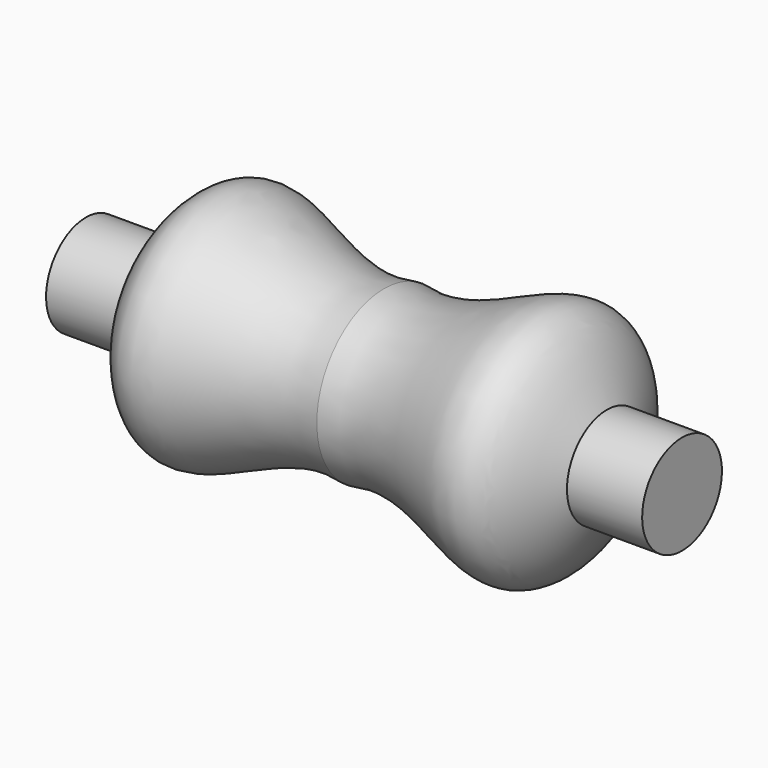
from build123d import *


with BuildPart() as f2:
    # F0 (on Front) → F2 (revolve)
    with BuildSketch(Plane.XZ):
        with BuildLine():
            Line((-12.7, 0), (0, 0))
            Line((0, 0), (12.7, 0))
            Line((12.7, 0), (12.7, 2.1246635822))
            Line((12.7, 2.1246635822), (9.4962037243, 2.1246635822))
            add(Edge.make_bspline(
                [(9.4962037243, 2.1246635822), (8.847753558, 3.3866646294), (7.2276083815, 6.9622252691), (2.9177115773, 2.9771906303), (0, 3.5794011501)],
                knots=[0, 0, 0, 0, 0.4234883945, 1, 1, 1, 1], degree=3))
            add(Edge.make_bspline(
                [(-9.4962037243, 2.1246635822), (-8.847753558, 3.3866646294), (-7.2276083815, 6.9622252691), (-2.9177115773, 2.9771906303), (0, 3.5794011501)],
                knots=[0, 0, 0, 0, 0.4234883945, 1, 1, 1, 1], degree=3))
            Line((-9.4962037243, 2.1246635822), (-12.7, 2.1246635822))
            Line((-12.7, 2.1246635822), (-12.7, 0))
        make_face()
    revolve(axis=Axis((-0.0620987266, 0, 0), (1, 0, 0)))


solid = f2.part
